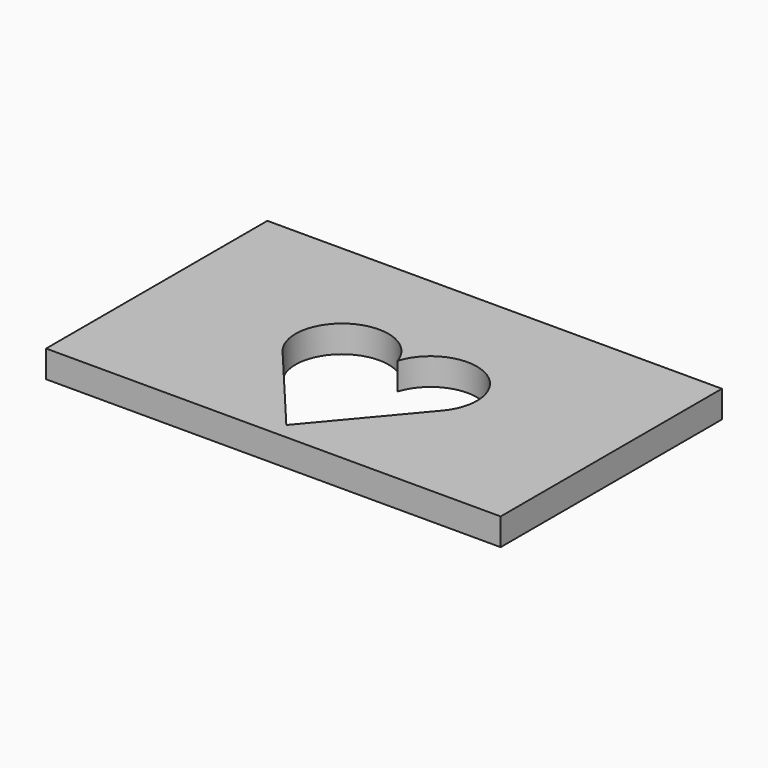
from build123d import *

# Parameters (mm, degrees)
F0_W     = 117.5
F0_H     = 71.5
F1_DEPTH = 7


with BuildPart() as f1:
    # F0 (on Top) → F1 (new body)
    with BuildSketch(Plane.XY):
        Rectangle(F0_W, F0_H)
        with BuildLine():
            Line((20.634694, -6.987499), (0, -31.555828))
            Line((0, -31.555828), (-20.634694, -6.987499))
            ThreePointArc((-20.634694, -6.987499), (-17.241509, 11.252086), (0, 4.401793))
            ThreePointArc((0, 4.401793), (17.241509, 11.252086), (20.634694, -6.987499))
        make_face(mode=Mode.SUBTRACT)
    extrude(amount=F1_DEPTH)


solid = f1.part
